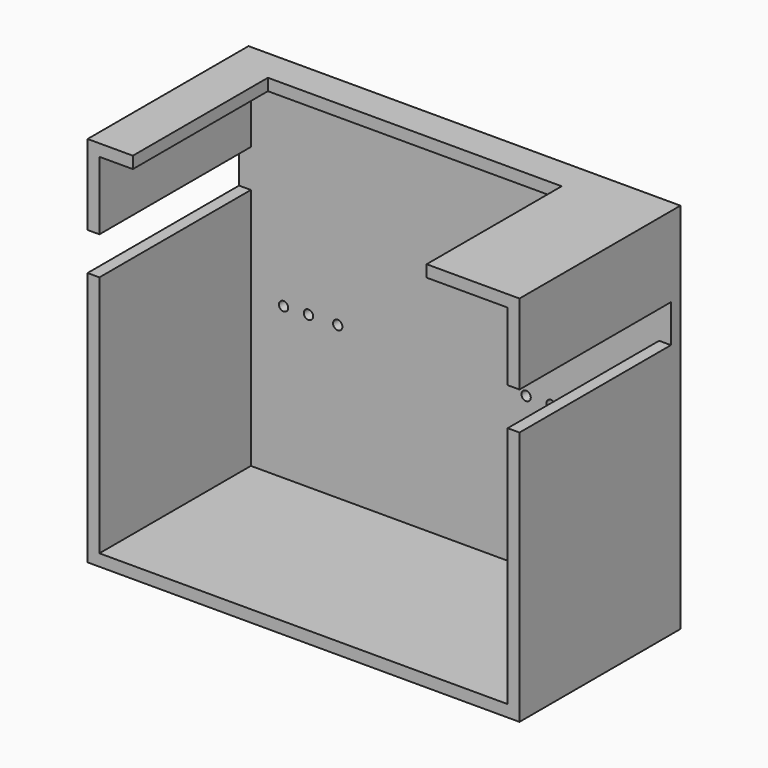
from build123d import *

# Parameters (mm, degrees)
F0_W      = 46.355
F0_H      = 40.005
F1_DEPTH  = 21.59
F3_T      = -1.27
F5_W      = 26.924
F5_H      = 4.064
F6_DEPTH  = 63.246
F8_D      = 1.000001
F10_D     = 1.000001
F12_D     = 1.000001
F14_D     = 1.000001
F16_D     = 1.000001
F18_W     = 31.528105
F18_H     = 18.119926
F19_DEPTH = 25.4
F20_D     = 1.000001


with BuildPart() as f1:
    # F0 (on Front) → F1 (new body)
    with BuildSketch(Plane.XZ):
        with Locations((23.1775, 20.0025)):
            Rectangle(F0_W, F0_H)
    extrude(amount=F1_DEPTH)

    # F3
    f3_openings = [f1.faces().sort_by_distance(p)[0] for p in [
        (23.1775, -21.59, 20.0025),
    ]]
    offset(amount=F3_T, openings=f3_openings)

    # F5 (on Right) → F6 (cut)
    with BuildSketch(Plane.YZ):
        with Locations((-14.732, 29.373137)):
            Rectangle(F5_W, F5_H)
    extrude(amount=F6_DEPTH, mode=Mode.SUBTRACT)

    # F8 (through all)
    with Locations(Plane(origin=(0, 0, 0), x_dir=(-1, 0, 0), z_dir=(0, 1, 0))):
        with Locations((-10.5918, 17.609857)):
            Hole(F8_D / 2)

    # F10 (through all)
    with Locations(Plane(origin=(0, 0, 0), x_dir=(-1, 0, 0), z_dir=(0, 1, 0))):
        with Locations((-30.8102, 17.490488)):
            Hole(F10_D / 2)

    # F12 (through all)
    with Locations(Plane(origin=(0, 0, 0), x_dir=(-1, 0, 0), z_dir=(0, 1, 0))):
        with Locations((-33.4852, 17.490488)):
            Hole(F12_D / 2)

    # F14 (through all)
    with Locations(Plane(origin=(0, 0, 0), x_dir=(-1, 0, 0), z_dir=(0, 1, 0))):
        with Locations((-36.159544, 17.431264)):
            Hole(F14_D / 2)

    # F16 (through all)
    with Locations(Plane(origin=(0, 0, 0), x_dir=(-1, 0, 0), z_dir=(0, 1, 0))):
        with Locations((-7.450511, 17.565635)):
            Hole(F16_D / 2)

    # F18 (on face) → F19 (cut)
    with BuildSketch(Plane.XY.offset(40.005)):
        with Locations((20.622158, -12.530037)):
            Rectangle(F18_W, F18_H)
    extrude(amount=-F19_DEPTH, mode=Mode.SUBTRACT)

    # F20 (through all)
    with Locations(Plane(origin=(0, 0, 0), x_dir=(-1, 0, 0), z_dir=(0, 1, 0))):
        with Locations((-4.776387, 17.497179)):
            Hole(F20_D / 2)


solid = f1.part
